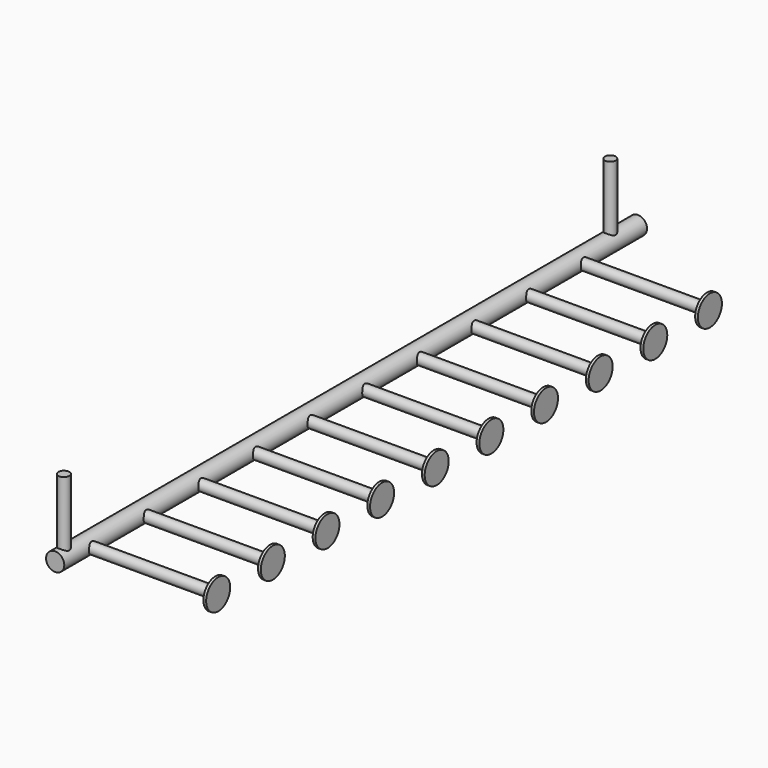
from build123d import *

# Parameters (mm, degrees)
F0_R     = 50
F1_DEPTH = 4000
F2_R     = 30
F3_DEPTH = 400
F4_R     = 30
F5_DEPTH = 720
F6_R     = 82.5
F7_DEPTH = 15


with BuildPart() as f1:
    # F0 (on Front) → F1 (new body)
    with BuildSketch(Plane.XZ):
        Circle(F0_R)
    extrude(amount=-F1_DEPTH)

    # F2 (on Top) → F3 (join)
    with BuildSketch(Plane.XY):
        with Locations((0, 60)):
            Circle(F2_R)
        with Locations((0, 3810)):
            Circle(F2_R)
    extrude(amount=F3_DEPTH)

    # F4 (on Right) → F5 (join)
    with BuildSketch(Plane.YZ):
        with Locations((200, 0)):
            Circle(F4_R)
        with Locations((575, 0)):
            Circle(F4_R)
        with Locations((950, 0)):
            Circle(F4_R)
        with Locations((1325, 0)):
            Circle(F4_R)
        with Locations((1700, 0)):
            Circle(F4_R)
        with Locations((2075, 0)):
            Circle(F4_R)
        with Locations((2450, 0)):
            Circle(F4_R)
        with Locations((2825, 0)):
            Circle(F4_R)
        with Locations((3200, 0)):
            Circle(F4_R)
        with Locations((3575, 0)):
            Circle(F4_R)
    extrude(amount=F5_DEPTH)

    # F6 (on face) → F7 (join)
    with BuildSketch(Plane.YZ.offset(720)):
        with Locations((200, 0)):
            Circle(F6_R)
        with Locations((575, 0)):
            Circle(F6_R)
        with Locations((950, 0)):
            Circle(F6_R)
        with Locations((1325, 0)):
            Circle(F6_R)
        with Locations((1700, 0)):
            Circle(F6_R)
        with Locations((2075, 0)):
            Circle(F6_R)
        with Locations((2450, 0)):
            Circle(F6_R)
        with Locations((2825, 0)):
            Circle(F6_R)
        with Locations((3200, 0)):
            Circle(F6_R)
        with Locations((3575, 0)):
            Circle(F6_R)
    extrude(amount=F7_DEPTH)


solid = f1.part
